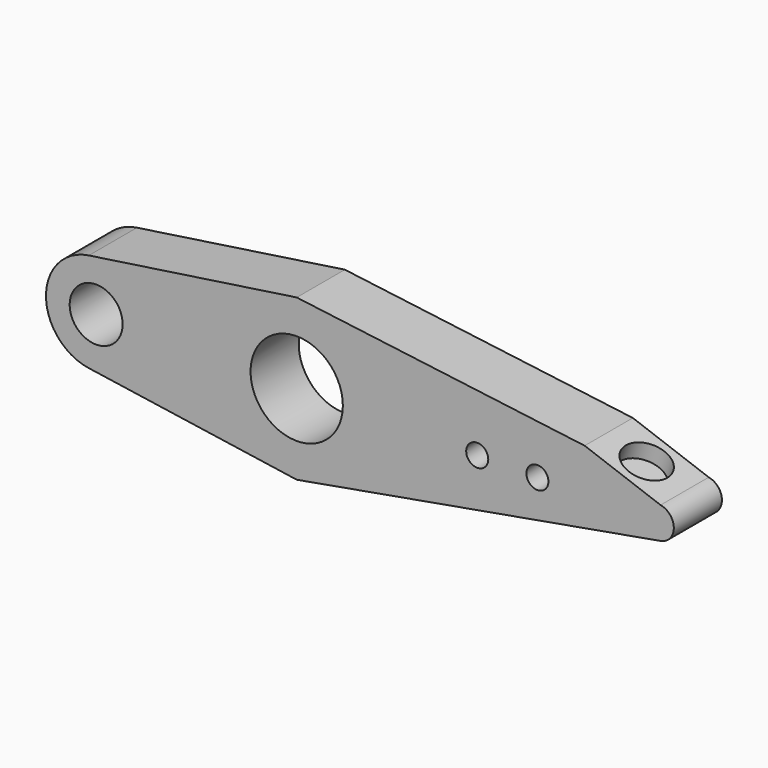
from build123d import *

# Parameters (mm, degrees)
F0_R     = 11.5
F1_DEPTH = 15
F3_D     = 5.5
F4_D     = 13.2
F5_R     = 5.5
F6_DEPTH = 4.2


with BuildPart() as f1:
    # F0 (on Front) → F1 (new body)
    with BuildSketch(Plane.XZ):
        with BuildLine():
            Line((71.7835429594, 10.8070662041), (0, 20))
            Line((0, 20), (-51.8216221637, 12.3665554094))
            ThreePointArc((-51.8216221637, 12.3665554094), (-62.5, 0), (-51.8216221637, -12.3665554094))
            Line((-51.8216221637, -12.3665554094), (0, -20))
            Line((0, -20), (90.6974930025, -3.9387185113))
            ThreePointArc((90.6974930025, -3.9387185113), (94, 0), (90.6974930025, 3.9387185113))
            Line((90.6974930025, 3.9387185113), (71.7835429594, 10.8070662041))
        make_face()
        Circle(F0_R, mode=Mode.SUBTRACT)
    extrude(amount=F1_DEPTH)

    # F3 (through all)
    with Locations(Plane(origin=(0, 0, 0), x_dir=(-1, 0, 0), z_dir=(0, 1, 0))):
        with Locations((-60, 0), (-45, 0)):
            Hole(F3_D / 2)

    # F4 (through all)
    with Locations(Plane(origin=(0, 0, 0), x_dir=(1, 0, 0), z_dir=(0, 1, 0))):
        with Locations((-50, 0)):
            Hole(F4_D / 2)

    # F5 (on face) → F6 (cut)
    with BuildSketch(Plane(origin=(11.8303595902, 0, 32.5782619474), x_dir=(0.9399441976, 0, -0.3413281491), z_dir=(0.3413281491, 0, 0.9399441976))):
        with Locations((73.8449777845, -7.5)):
            Circle(F5_R)
    extrude(amount=-F6_DEPTH, mode=Mode.SUBTRACT)


solid = f1.part
